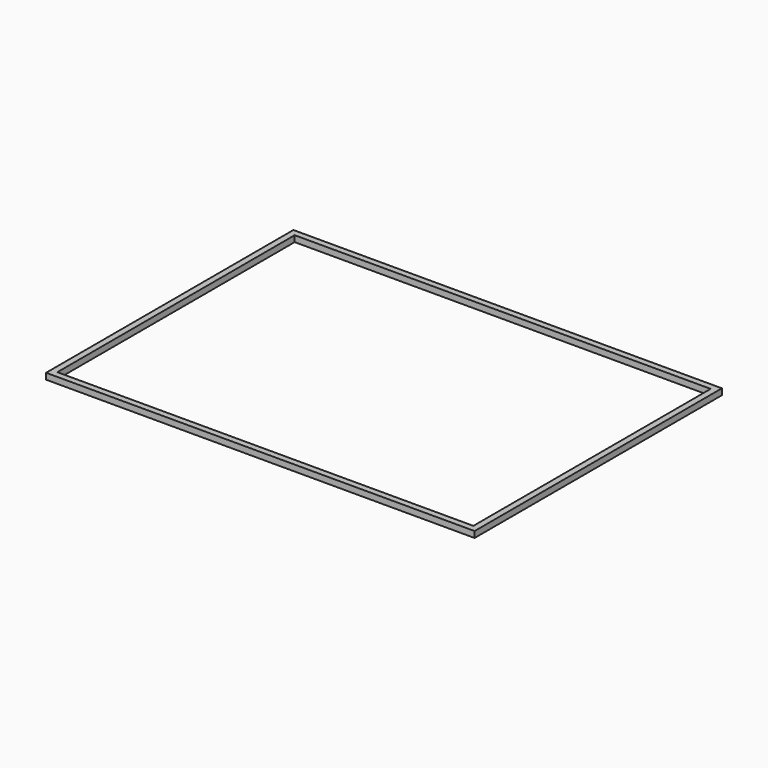
from build123d import *

# Parameters (mm, degrees)
F0_W     = 25.9512081146
F0_H     = 25.8589489582
F0_W_2   = 292.5098538399
F0_H_2   = 1230.8580875397
F0_W_3   = 26.0652303696
F0_H_3   = 25.9829635022
F0_W_4   = 26.0652527213
F0_W_5   = 779.060781002
F1_DEPTH = 25.4


with BuildPart() as f1:
    # F0 (on Top) → F1 (new body)
    with BuildSketch(Plane.XY):
        with Locations((-834.7059197426, 157.3672643961)):
            Rectangle(F0_W, F0_H)
        with Locations((-675.4753887653, 157.3672643961)):
            Rectangle(F0_W_2, F0_H)
        with Locations((-834.7059197426, -470.9912538528)):
            Rectangle(F0_W, F0_H_2)
        with Locations((-516.1878466606, 157.3672643961)):
            Rectangle(F0_W_3, F0_H)
        with Locations((-834.7059197426, -1099.4117793738)):
            Rectangle(F0_W, F0_H_3)
        Polygon((99.2412343621, 170.2967388751), (-503.1552314758, 170.2967388751), (-503.1552314758, 144.437789917), (-225.1261025667, 144.437789917), (-199.060857296, 144.437789917), (99.2412343621, 144.437789917), align=None)
        with Locations((-675.4753887653, -1099.4117793738)):
            Rectangle(F0_W_2, F0_H_3)
        with Locations((112.2738607228, 157.3672643961)):
            Rectangle(F0_W_4, F0_H)
        with Locations((-516.1878466606, -1099.4117793738)):
            Rectangle(F0_W_3, F0_H_3)
        with Locations((514.8368775845, 157.3672643961)):
            Rectangle(F0_W_5, F0_H)
        Polygon((-225.1261025667, -1086.4202976227), (-503.1552314758, -1086.4202976227), (-503.1552314758, -1112.4032611249), (99.2412343621, -1112.4032611249), (99.2412343621, -1086.4202976227), (-199.060857296, -1086.4202976227), align=None)
        with Locations((917.3428721428, 157.3672643961)):
            Rectangle(F0_W, F0_H)
        with Locations((112.2738607228, -1099.4117793738)):
            Rectangle(F0_W_4, F0_H_3)
        with Locations((917.3428721428, -470.9912538528)):
            Rectangle(F0_W, F0_H_2)
        with Locations((514.8368775845, -1099.4117793738)):
            Rectangle(F0_W_5, F0_H_3)
        with Locations((917.3428721428, -1099.4117793738)):
            Rectangle(F0_W, F0_H_3)
    extrude(amount=F1_DEPTH)


solid = f1.part
